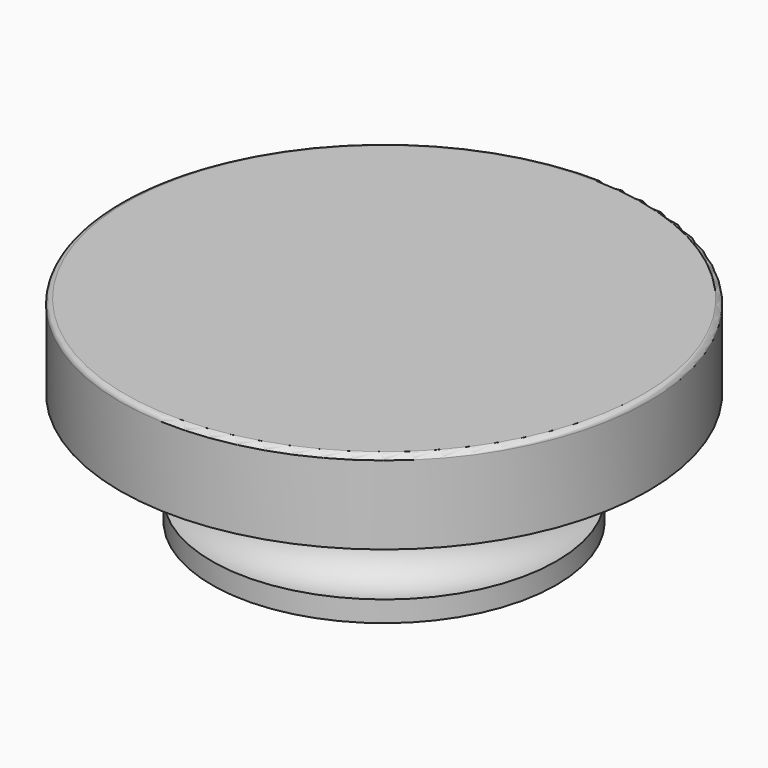
from build123d import *

# Parameters (mm, degrees)
F2_R = 0.2


with BuildPart() as f1:
    # F0 (on Front) → F1 (revolve)
    with BuildSketch(Plane.XZ):
        with BuildLine():
            Line((10.435, 14.422704), (0, 14.422704))
            Line((0, 14.422704), (0, 10.294014))
            Line((0, 10.294014), (3.405, 10.294014))
            Line((3.405, 10.294014), (4.58817, 6.672704))
            Line((4.58817, 6.672704), (6.81, 6.672704))
            Line((6.81, 6.672704), (6.81, 7.497758))
            ThreePointArc((6.81, 7.497758), (5.410053, 8.897704), (6.81, 10.297651))
            Line((6.81, 10.297651), (6.81, 11.122704))
            Line((6.81, 11.122704), (10.435, 11.122704))
            Line((10.435, 11.122704), (10.435, 14.422704))
        make_face()
    revolve(axis=Axis((0, 0, 6.85568), (0, 0, -1)))

    # F2
    f2_edges = [f1.edges().sort_by_distance(p)[0] for p in [
        (-10.435, 0, 14.422704),
    ]]
    fillet(f2_edges, radius=F2_R)


solid = f1.part
